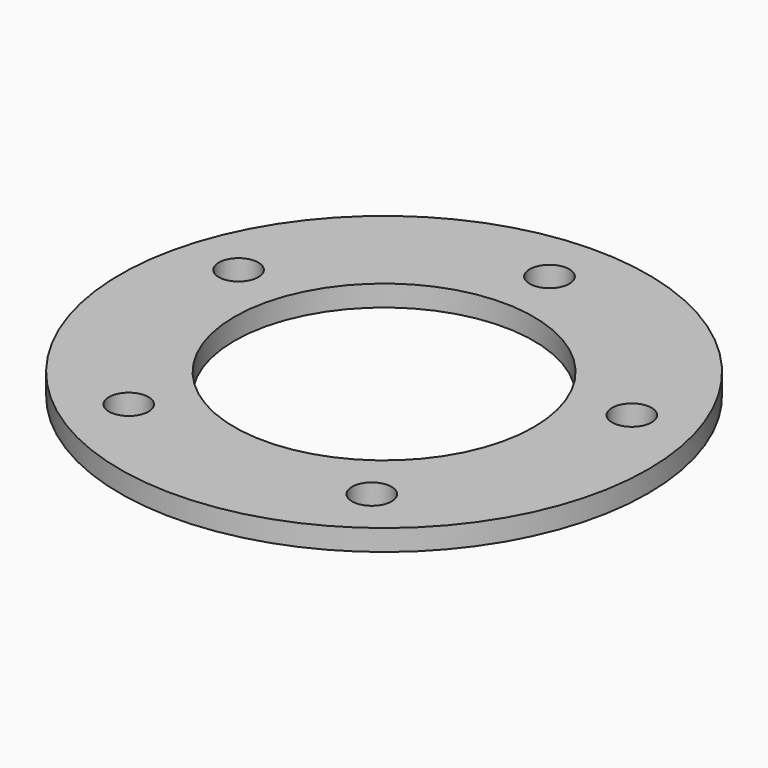
from build123d import *

# Parameters (mm, degrees)
F0_R     = 38.1
F0_R_2   = 2.8575
F0_R_3   = 21.59
F1_DEPTH = 3.048


with BuildPart() as f1:
    # F0 (on Top) → F1 (new body)
    with BuildSketch(Plane.XY):
        Circle(F0_R)
        with Locations((-17.542451, -24.145112)):
            Circle(F0_R_2, mode=Mode.SUBTRACT)
        with Locations((17.542451, -24.145112)):
            Circle(F0_R_2, mode=Mode.SUBTRACT)
        with Locations((-28.384282, 9.222612)):
            Circle(F0_R_2, mode=Mode.SUBTRACT)
        Circle(F0_R_3, mode=Mode.SUBTRACT)
        with Locations((28.384282, 9.222612)):
            Circle(F0_R_2, mode=Mode.SUBTRACT)
        with Locations((0, 29.845)):
            Circle(F0_R_2, mode=Mode.SUBTRACT)
    extrude(amount=F1_DEPTH)


solid = f1.part
